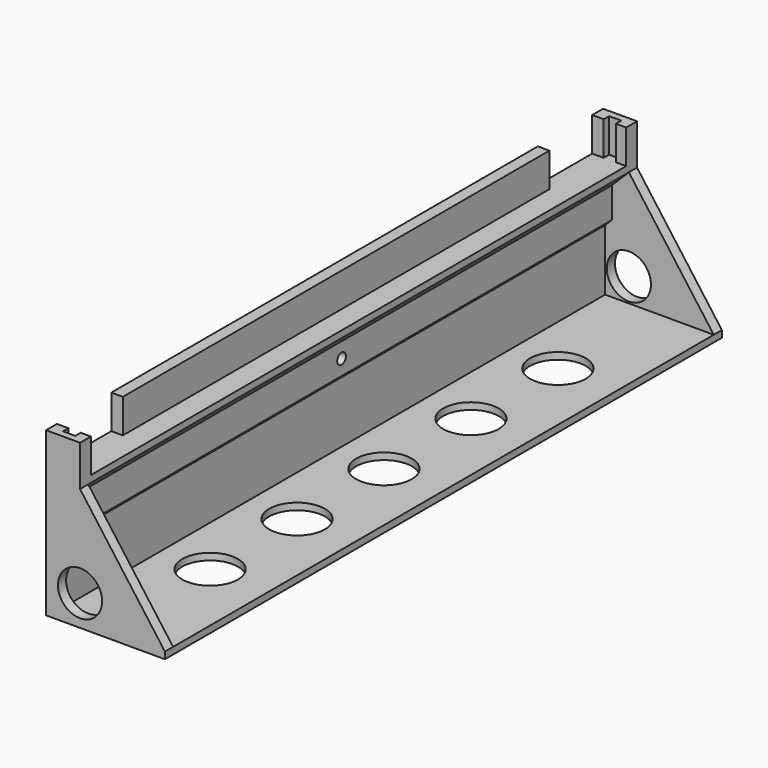
from build123d import *

# Parameters (mm, degrees)
PAD001_DEPTH    = 102.5
POCKET002_DEPTH = 10
SKETCH007_R     = 1.6
POCKET005_DEPTH = 5
SKETCH008_R     = 8.2
POCKET006_DEPTH = 2.5
SKETCH026_R     = 6.5
PAD010_DEPTH    = 3
SKETCH027_R     = 6.5
PAD011_DEPTH    = 3


with BuildPart() as part:
    # Sketch003 → Pad001 (new body, symmetric)
    with BuildSketch(Plane.XZ):
        Polygon((0, 0), (35, 0), (35, 2), (3, 2), (3, 20), (5, 22), (5, 31), (10, 36), (10, 48), (0, 48), align=None)
    extrude(amount=PAD001_DEPTH, both=True)

    # Sketch004 (on Face9 of Pad001) → Pocket002 (cut)
    with BuildSketch(Plane(origin=(0, 0, 48), x_dir=(-1, 0, 0), z_dir=(0, 0, 1))):
        Polygon((-10, 98.5), (-7, 98.5), (-7, 100.5), (-3.4, 100.5), (-3.4, 98.5), (0, 98.5), (0, 78.5), (-3.4, 78.5), (-3.4, -78.5), (0, -78.5), (0, -98.5), (-3.4, -98.5), (-3.4, -100.5), (-7, -100.5), (-7, -98.5), (-10, -98.5), align=None)
    extrude(amount=-POCKET002_DEPTH, mode=Mode.SUBTRACT)

    # Sketch007 (on Face17 of Pocket002) → Pocket005 (cut)
    with BuildSketch(Plane(origin=(5, 0, 0), x_dir=(0, 0, 1), z_dir=(1, 0, 0))):
        with Locations((26.5, 0)):
            Circle(SKETCH007_R)
    extrude(amount=-POCKET005_DEPTH, mode=Mode.SUBTRACT)

    # Sketch008 → Pocket006 (cut, symmetric)
    with BuildSketch(Plane.XY):
        with Locations((17.5, 0)):
            Circle(SKETCH008_R)
        with Locations((17.5, 64)):
            Circle(SKETCH008_R)
        with Locations((17.5, 32)):
            Circle(SKETCH008_R)
        with Locations((17.5, -32)):
            Circle(SKETCH008_R)
        with Locations((17.5, -64)):
            Circle(SKETCH008_R)
    extrude(amount=POCKET006_DEPTH, both=True, mode=Mode.SUBTRACT)

    # Sketch026 (on Face3 of Pocket006) → Pad010 (join)
    with BuildSketch(Plane(origin=(0, 102.5, 0), x_dir=(1, 0, 0), z_dir=(0, 1, 0))):
        Polygon((0, -36), (0, 0), (35, 0), (35, -2), (10, -36), align=None)
        with Locations((10, -9)):
            Circle(SKETCH026_R, mode=Mode.SUBTRACT)
    extrude(amount=-PAD010_DEPTH)

    # Sketch027 (on Face1 of Pad010) → Pad011 (join)
    with BuildSketch(Plane.XZ.offset(102.5)):
        Polygon((35, 2), (10, 36), (0, 36), (0, 0), (35, 0), align=None)
        with Locations((10, 9)):
            Circle(SKETCH027_R, mode=Mode.SUBTRACT)
    extrude(amount=-PAD011_DEPTH)


with BuildPart() as part_1:
    # Body001 placement: moved
    add(part.part.moved(Location((50, -150, 0))))


solid = part_1.part
